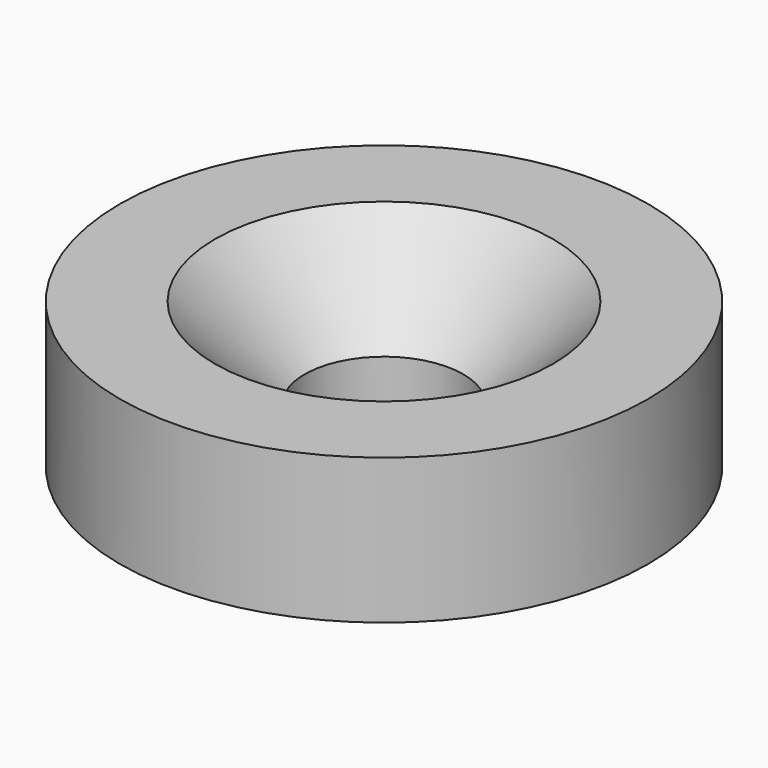
from build123d import *


with BuildPart() as part:
    # Sketch → Revolution (revolve)
    with BuildSketch(Plane.XZ):
        Polygon((3.2, 2.75), (5, 2.75), (5, 0), (1.5, 0), (1.5, 1.05), align=None)
    revolve(axis=Axis((0, 0, 0), (0, 0, 1)))


solid = part.part
